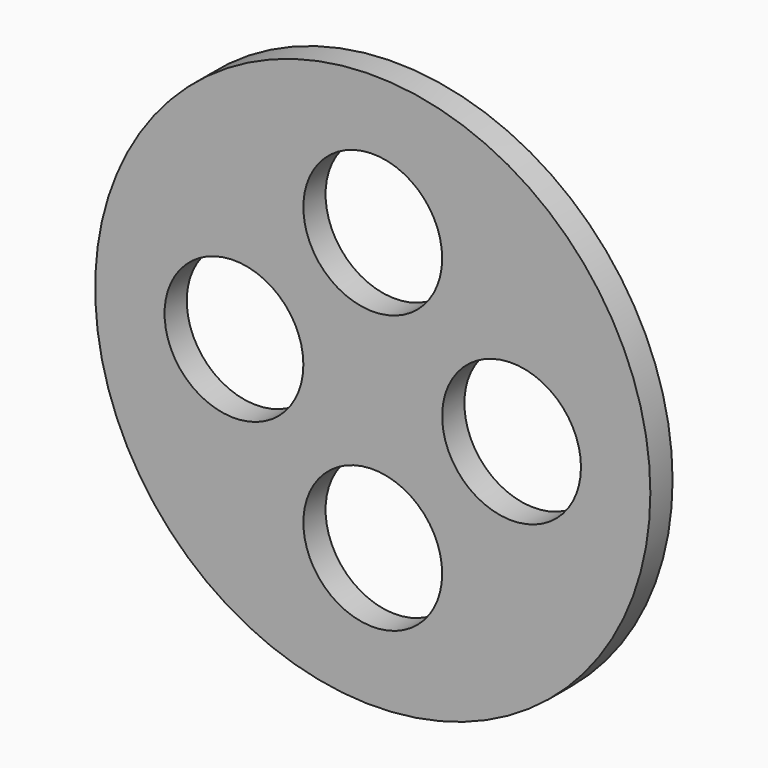
from build123d import *

# Parameters (mm, degrees)
F0_R     = 50
F0_R_2   = 12.5
F1_DEPTH = 5


with BuildPart() as f1:
    # F0 (on Front) → F1 (new body)
    with BuildSketch(Plane.XZ):
        Circle(F0_R)
        with Locations((0, -25)):
            Circle(F0_R_2, mode=Mode.SUBTRACT)
        with Locations((-25, 0)):
            Circle(F0_R_2, mode=Mode.SUBTRACT)
        with BuildLine():
            ThreePointArc((12.5, 0), (25, 12.5), (37.5, 0))
            ThreePointArc((37.5, 0), (25, -12.5), (12.5, 0))
        make_face(mode=Mode.SUBTRACT)
        with Locations((0, 25)):
            Circle(F0_R_2, mode=Mode.SUBTRACT)
    extrude(amount=F1_DEPTH)


solid = f1.part
